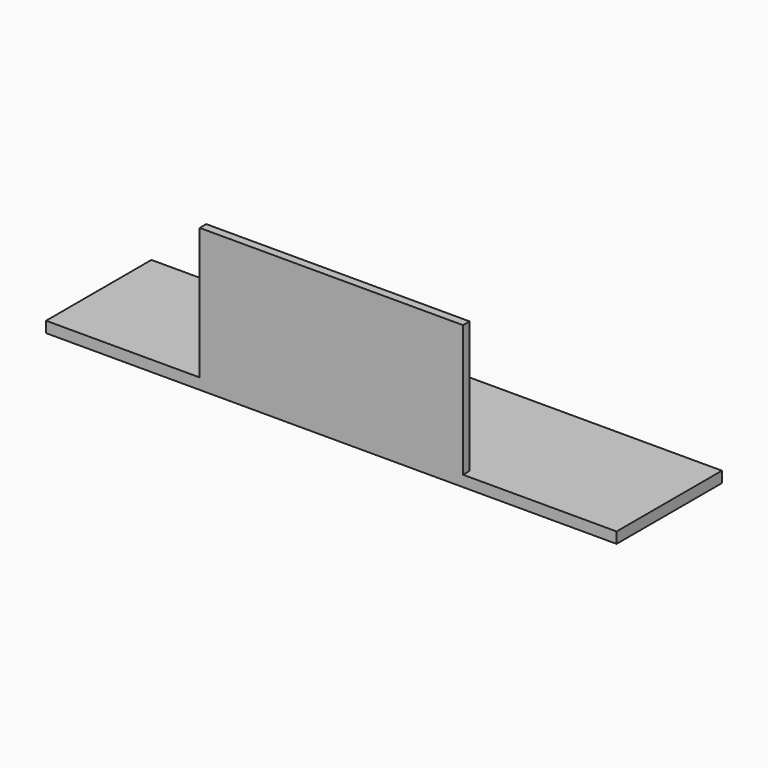
from build123d import *

# Parameters (mm, degrees)
F0_W     = 660.4
F0_H     = 152.4
F1_DEPTH = 12.7
F2_W     = 304.8
F2_H     = 152.4
F3_DEPTH = 9.525


with BuildPart() as f1:
    # F0 (on Top) → F1 (new body)
    with BuildSketch(Plane.XY):
        Rectangle(F0_W, F0_H)
    extrude(amount=F1_DEPTH)

    # F2 (on face) → F3 (join)
    with BuildSketch(Plane.XZ.offset(76.2)):
        with Locations((-2e-06, 88.9)):
            Rectangle(F2_W, F2_H)
    extrude(amount=-F3_DEPTH)


solid = f1.part
